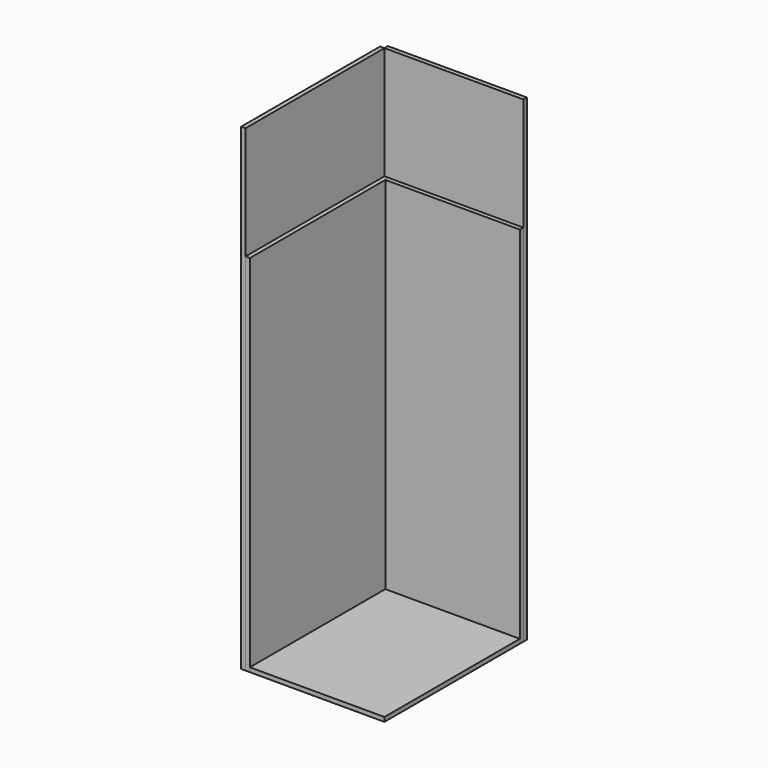
from build123d import *

# Parameters (mm, degrees)
F0_W     = 800
F0_H     = 2750
F1_DEPTH = 25
F2_W     = 1000
F2_H     = 2750
F3_DEPTH = 25
F4_W     = 800
F4_H     = 1000
F5_DEPTH = 25
F6_W     = 800
F6_H     = 2100
F7_DEPTH = 25
F8_W     = 1000
F8_H     = 2100
F9_DEPTH = 25


with BuildPart() as f1:
    # F0 (on Front) → F1 (new body)
    with BuildSketch(Plane.XZ):
        with Locations((400, 1375)):
            Rectangle(F0_W, F0_H)
    extrude(amount=-F1_DEPTH)

    # F2 (on Right) → F3 (join)
    with BuildSketch(Plane.YZ):
        with Locations((-500, 1375)):
            Rectangle(F2_W, F2_H)
    extrude(amount=-F3_DEPTH)


with BuildPart() as f5:
    # F4 (on Top) → F5 (new body)
    with BuildSketch(Plane.XY):
        with Locations((400, -500)):
            Rectangle(F4_W, F4_H)
    extrude(amount=F5_DEPTH)


with BuildPart() as f7:
    # F6 (on face) → F7 (new body)
    with BuildSketch(Plane.XZ):
        with Locations((400, 1050)):
            Rectangle(F6_W, F6_H)
    extrude(amount=F7_DEPTH)


with BuildPart() as f9:
    # F8 (on face) → F9 (new body)
    with BuildSketch(Plane.YZ):
        with Locations((-500, 1050)):
            Rectangle(F8_W, F8_H)
    extrude(amount=F9_DEPTH)


solid = Compound([f1.part, f5.part, f7.part, f9.part])
